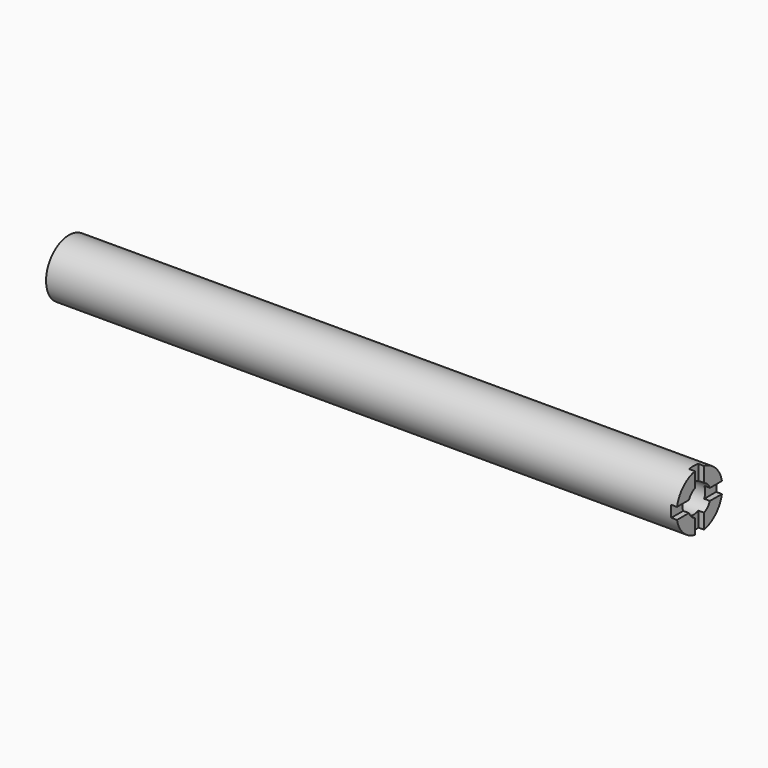
from build123d import *

# Parameters (mm, degrees)
F0_R     = 12.7
F1_DEPTH = 279.4
F2_R     = 6.35
F3_DEPTH = 25.4
F4_W     = 10.16
F4_H     = 5.08
F4_W_2   = 5.08
F4_H_2   = 10.16
F5_DEPTH = 2.54


with BuildPart() as f1:
    # F0 (on Right) → F1 (new body)
    with BuildSketch(Plane.YZ):
        Circle(F0_R)
    extrude(amount=F1_DEPTH)

    # F2 (on face) → F3 (cut)
    with BuildSketch(Plane.YZ.offset(279.4)):
        Circle(F2_R)
    extrude(amount=-F3_DEPTH, mode=Mode.SUBTRACT)

    # F4 (on face) → F5 (cut)
    with BuildSketch(Plane.YZ.offset(279.4)):
        with Locations((-7.62, 0)):
            Rectangle(F4_W, F4_H)
        with Locations((0, 7.62)):
            Rectangle(F4_W_2, F4_H_2)
        with Locations((7.62, 0)):
            Rectangle(F4_W, F4_H)
        with Locations((0, -7.62)):
            Rectangle(F4_W_2, F4_H_2)
    extrude(amount=-F5_DEPTH, mode=Mode.SUBTRACT)


solid = f1.part
